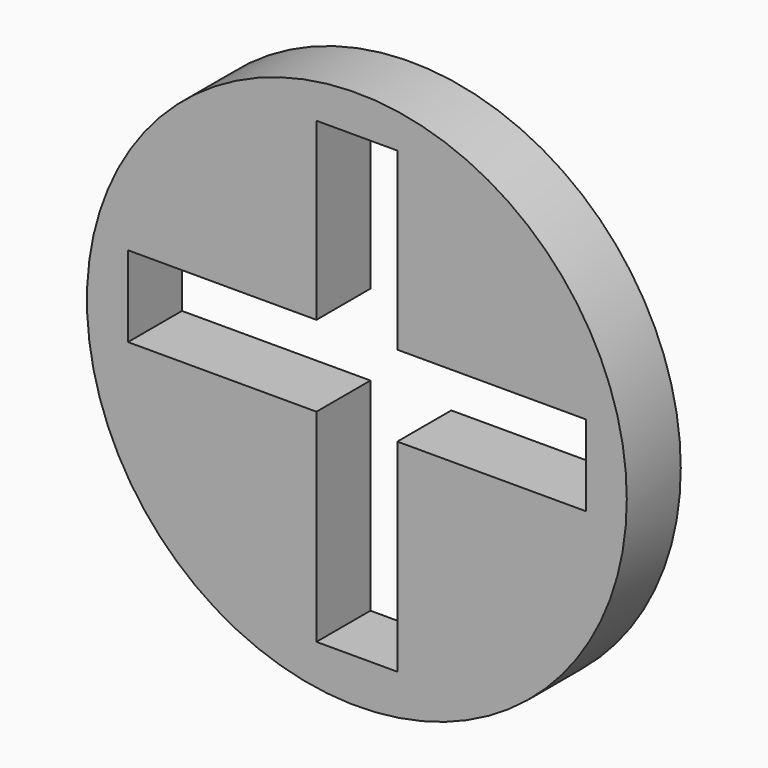
from build123d import *

# Parameters (mm, degrees)
F0_R     = 12.7
F1_DEPTH = 3.175


with BuildPart() as f1:
    # F0 (on Front) → F1 (new body)
    with BuildSketch(Plane.XZ):
        with Locations((0, -0.918301)):
            Circle(F0_R)
        Polygon((-10.76945, -2.039835), (-10.76945, 1.764737), (-1.902286, 1.764737), (-1.902286, 10.01233), (1.902286, 10.01233), (1.902286, 1.764737), (10.76945, 1.764737), (10.76945, -2.039835), (1.902286, -2.039835), (1.902286, -11.573113), (-1.902286, -11.573113), (-1.902286, -2.039835), align=None, mode=Mode.SUBTRACT)
    extrude(amount=F1_DEPTH)


solid = f1.part
